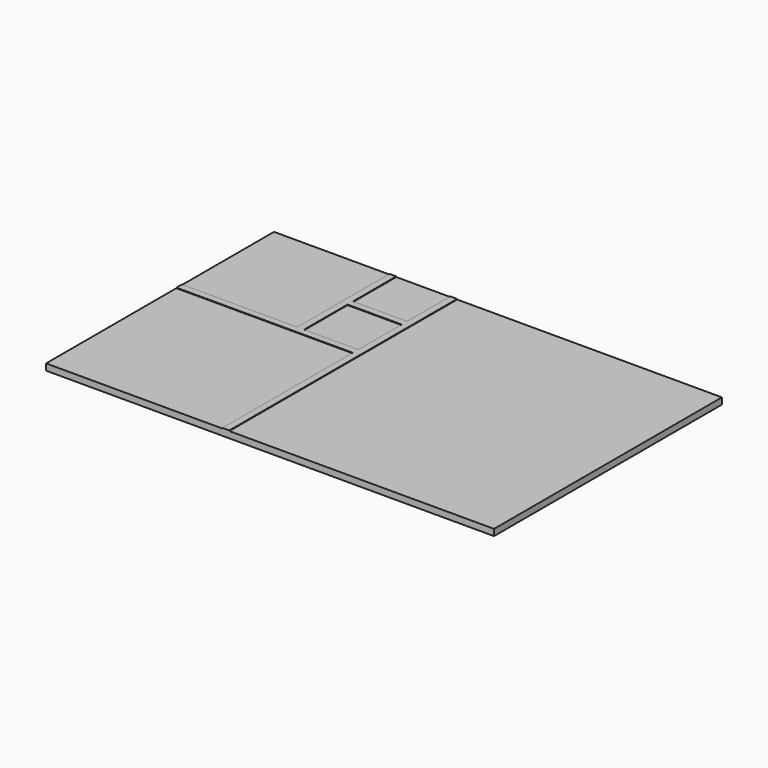
from build123d import *

# Parameters (mm, degrees)
F0_W     = 209.296
F0_H     = 133.096
F1_DEPTH = 2.9972
F2_W     = 25.273
F2_H     = 25.4
F3_DEPTH = 0.254


with BuildPart() as f1:
    # F0 (on Top) → F1 (new body)
    with BuildSketch(Plane.XY):
        Rectangle(F0_W, F0_H)
    extrude(amount=F1_DEPTH)

    # F2 (on face) → F3 (join)
    with BuildSketch(Plane.XY.offset(2.9972)):
        Polygon((-47.498, 66.548), (-50.673, 66.548), (-50.673, 12.7), (-104.648, 12.7), (-104.648, 9.525), (-22.225, 9.525), (-22.225, -66.548), (-19.05, -66.548), (-19.05, 66.548), (-22.225, 66.548), (-22.225, 41.275), (-47.498, 41.275), align=None)
        with Locations((-34.8615, 25.4)):
            Rectangle(F2_W, F2_H, mode=Mode.SUBTRACT)
    extrude(amount=F3_DEPTH)


solid = f1.part
